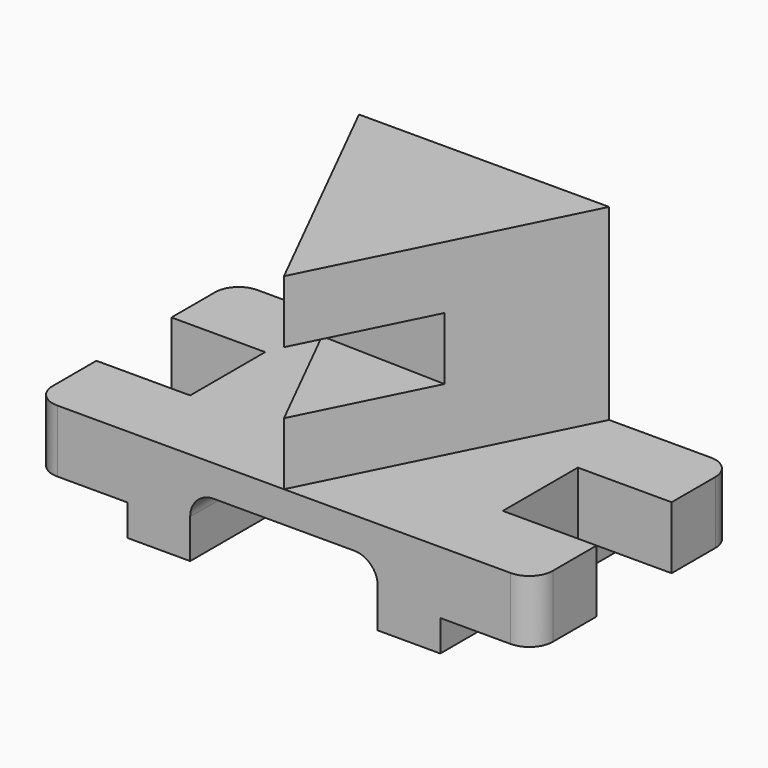
from build123d import *

# Parameters (mm, degrees)
F1_DEPTH       = 20
F3_DEPTH       = 120
F5_DEPTH       = 40
F7_DEPTH       = 160.001
F9_W           = 80
F9_H           = 40
F10_DEPTH      = 159.941314
F10_DEPTH_BACK = 164.311218


with BuildPart() as f1:
    # F0 (on Top) → F1 (new body, symmetric)
    with BuildSketch(Plane.XY):
        with BuildLine():
            Line((0, 50), (0, 15))
            ThreePointArc((0, 15), (4.393398, 4.393398), (15, 0))
            Line((15, 0), (305, 0))
            ThreePointArc((305, 0), (315.606602, 4.393398), (320, 15))
            Line((320, 15), (320, 50))
            Line((320, 50), (260, 50))
            Line((260, 50), (260, 110))
            Line((260, 110), (320, 110))
            Line((320, 110), (320, 145))
            ThreePointArc((320, 145), (315.606602, 155.606602), (305, 160))
            Line((305, 160), (240, 160))
            Line((240, 160), (80, 160))
            Line((80, 160), (15, 160))
            ThreePointArc((15, 160), (4.393398, 155.606602), (0, 145))
            Line((0, 145), (0, 110))
            Line((0, 110), (60, 110))
            Line((60, 110), (60, 50))
            Line((60, 50), (0, 50))
        make_face()
        with BuildLine():
            Line((0, 50), (0, 15))
            ThreePointArc((0, 15), (4.393398, 4.393398), (15, 0))
            Line((15, 0), (305, 0))
            ThreePointArc((305, 0), (315.606602, 4.393398), (320, 15))
            Line((320, 15), (320, 50))
            Line((320, 50), (260, 50))
            Line((260, 50), (260, 110))
            Line((260, 110), (320, 110))
            Line((320, 110), (320, 145))
            ThreePointArc((320, 145), (315.606602, 155.606602), (305, 160))
            Line((305, 160), (240, 160))
            Line((240, 160), (80, 160))
            Line((80, 160), (15, 160))
            ThreePointArc((15, 160), (4.393398, 155.606602), (0, 145))
            Line((0, 145), (0, 110))
            Line((0, 110), (60, 110))
            Line((60, 110), (60, 50))
            Line((60, 50), (0, 50))
        make_face()
    extrude(amount=F1_DEPTH, both=True)

    # F2 (on face) → F3 (join)
    with BuildSketch(Plane.XY.offset(20)):
        Polygon((240, 160), (160, 160), (80, 160), (160, 0), align=None)
    extrude(amount=F3_DEPTH)

    # F4 (on face) → F5 (join)
    with BuildSketch(Plane.XY):
        Polygon((60, 50), (60, 0), (260, 0), (260, 50), (260, 110), (260, 160), (240, 160), (80, 160), (60, 160), (60, 110), align=None)
    extrude(amount=-F5_DEPTH)

    # F6 (on face) → F7 (cut, through all)
    with BuildSketch(Plane(origin=(0, 160, 0), x_dir=(-1, 0, 0), z_dir=(0, 1, 0))):
        with BuildLine():
            Line((-220, -40), (-100, -40))
            Line((-100, -40), (-100, -15))
            ThreePointArc((-100, -15), (-104.393398, -4.393398), (-115, 0))
            Line((-115, 0), (-205, 0))
            ThreePointArc((-205, 0), (-215.606602, -4.393398), (-220, -15))
            Line((-220, -15), (-220, -40))
        make_face()
    extrude(amount=-F7_DEPTH, mode=Mode.SUBTRACT)

    # F9 (on face) → F10 (cut, two sides)
    with BuildSketch(Plane(origin=(159.88065, -4.368274, 0), x_dir=(0.027312, 0.999627, 0), z_dir=(0.999627, -0.027312, 0))) as f10_sk:
        with Locations((44.369904, 80)):
            Rectangle(F9_W, F9_H)
    extrude(amount=F10_DEPTH, mode=Mode.SUBTRACT)
    extrude(f10_sk.sketch, amount=-F10_DEPTH_BACK, mode=Mode.SUBTRACT)


solid = f1.part
